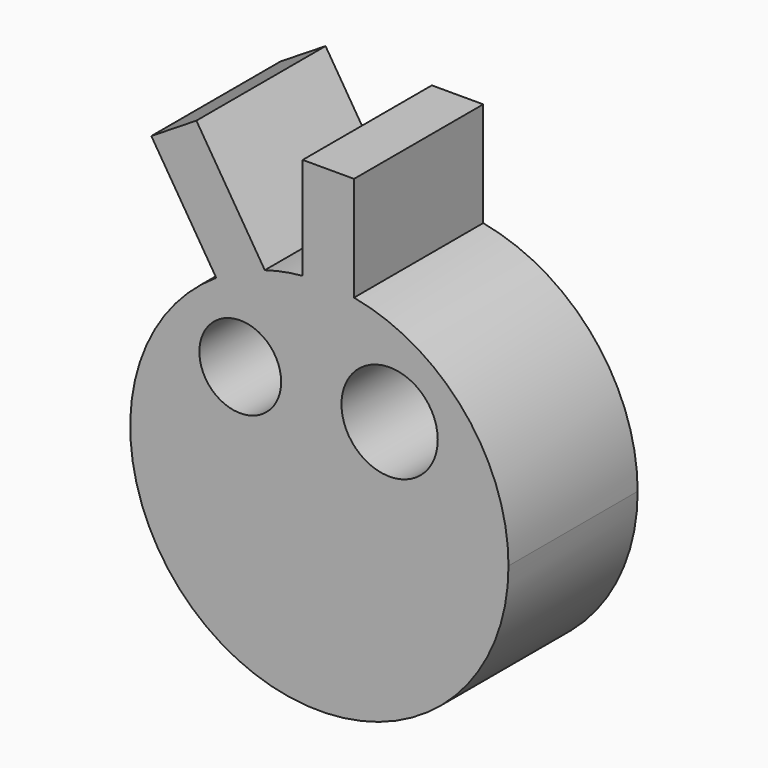
from build123d import *

# Parameters (mm, degrees)
F0_R     = 6.434371
F0_R_2   = 7.574086
F1_DEPTH = 25.4
F2_W     = 3.636818
F2_H     = 3.357063
F2_W_2   = 13.428252
F2_W_3   = 5.315348
F3_DEPTH = 25.4


with BuildPart() as f1:
    # F0 (on Front) → F1 (new body)
    with BuildSketch(Plane.XZ):
        with BuildLine():
            ThreePointArc((-16.227132, 24.940537), (-14.186517, -26.15517), (29.754834, 0))
            ThreePointArc((29.754834, 0), (22.887437, 19.013558), (5.455228, 29.250481))
            ThreePointArc((5.455228, 29.250481), (1.427673, 29.720564), (-2.626396, 29.638695))
            ThreePointArc((-2.626396, 29.638695), (-5.634264, 29.216524), (-8.583421, 28.489912))
            ThreePointArc((-8.583421, 28.489912), (-12.531576, 26.987215), (-16.227132, 24.940537))
        make_face()
        with Locations((-12.449108, 13.847885)):
            Circle(F0_R, mode=Mode.SUBTRACT)
        with Locations((11.050331, 13.847885)):
            Circle(F0_R_2, mode=Mode.SUBTRACT)
        with BuildLine():
            ThreePointArc((-2.626396, 29.638695), (1.427673, 29.720564), (5.455228, 29.250481))
            Line((5.455228, 29.250481), (5.455228, 45.698488))
            Line((5.455228, 45.698488), (-2.626396, 45.698488))
            Line((-2.626396, 45.698488), (-2.626396, 29.638695))
        make_face()
        with BuildLine():
            Line((-26.436771, 41.263932), (-16.227132, 24.940537))
            ThreePointArc((-16.227132, 24.940537), (-12.531576, 26.987215), (-8.583421, 28.489912))
            Line((-8.583421, 28.489912), (-19.346706, 45.698488))
            Line((-19.346706, 45.698488), (-26.436771, 41.263932))
        make_face()
    extrude(amount=F1_DEPTH)

    # F2 (on Front) → F3 (join)
    with BuildSketch(Plane.XZ):
        with Locations((-8.112902, -10.770577)):
            Rectangle(F2_W, F2_H)
        with Locations((0.419633, -10.770577)):
            Rectangle(F2_W_2, F2_H)
        with Locations((9.791433, -10.770577)):
            Rectangle(F2_W_3, F2_H)
        Polygon((0, 0), (0, 11.609843), (-7.13376, 0), align=None)
    extrude(amount=F3_DEPTH)


solid = f1.part
